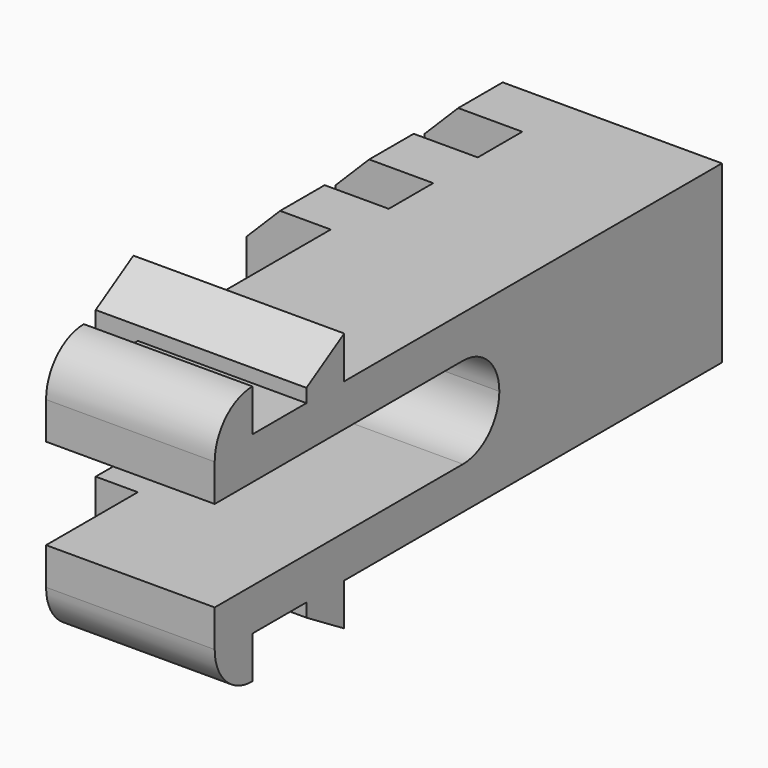
from build123d import *

# Parameters (mm, degrees)
PAD017_DEPTH           = 5
PAD020_DEPTH           = 6.25
SKETCH055_W            = 5.2
SKETCH055_H            = 1.65
PAD025_DEPTH           = 7.5
SKETCH052_W            = 5.2
SKETCH052_H            = 1.65
PAD026_DEPTH           = 4.6
SKETCH053_W            = 2.1
SKETCH053_H            = 1.65
PAD027_DEPTH           = 7.5
SKETCH054_W            = 5.2
SKETCH054_H            = 1.65
PAD028_DEPTH           = 7.5
LINEARPATTERN011_COUNT = 2
LINEARPATTERN011_PITCH = 3.3
CHAMFER001_SIZE        = 1
MIRROR_PLACEMENT_ANGLE = 90


with BuildPart() as obj1:
    # Sketch034 → Pad017 (new body)
    with BuildSketch(Plane.XY):
        with BuildLine():
            Line((-1.35, -1.8), (-1.35, 6))
            ThreePointArc((0, 7.35), (-0.954594, 6.954594), (-1.35, 6))
            Line((0, 9), (0, 7.35))
            Line((-2.6, 9), (0, 9))
            Line((-2.6, -1.8), (-2.6, 9))
            Line((-3.85, -1.8), (-2.6, -1.8))
            ThreePointArc((-3.85, -1.8), (-3.439949, -2.789949), (-2.45, -3.2))
            Line((-1.35, -3.2), (-2.45, -3.2))
            Line((-1.35, -1.8), (-1.35, -3.2))
        make_face()
    extrude(amount=PAD017_DEPTH)

    # Sketch037 → Pad020 (join)
    with BuildSketch(Plane.XY):
        Polygon((-1.35, 0.2), (-1.35, 1.6), (-2.6, 1.6), (-3.85, 1.6), (-3, 0.2), (-2.6, 0.2), align=None)
    extrude(amount=PAD020_DEPTH)


with BuildPart() as obj2:
    # Mirror001: instance of _obj1
    add(obj1.part.mirror(Plane(origin=(0, 0, 0), x_dir=(0, 1, 0), z_dir=(-1, 0, 0))))


with BuildPart() as body014:
    # Fusion001 base: copy of _obj1
    add(obj1.part)

    # Fusion001: union _obj2)
    add(obj2.part)

    # Sketch055 → Pad025 (new body)
    with BuildSketch(Plane.XY):
        with Locations((0, 8.175)):
            Rectangle(SKETCH055_W, SKETCH055_H)
    extrude(amount=PAD025_DEPTH)

    # Sketch052 → Pad026 (join)
    with BuildSketch(Plane.XY):
        with Locations((0, 9.825)):
            Rectangle(SKETCH052_W, SKETCH052_H)
    pad026 = extrude(amount=PAD026_DEPTH)

    # Sketch053 → Pad027 (join)
    with BuildSketch(Plane.XY):
        with Locations((1.55, 9.825)):
            Rectangle(SKETCH053_W, SKETCH053_H)
    pad027 = extrude(amount=PAD027_DEPTH)

    # Sketch054 → Pad028 (join)
    with BuildSketch(Plane.XY):
        with Locations((0, 11.475)):
            Rectangle(SKETCH054_W, SKETCH054_H)
    pad028 = extrude(amount=PAD028_DEPTH)

    # LinearPattern011: Pad026, Pad027, Pad028 ×2
    with Locations(*[(0, i * LINEARPATTERN011_PITCH, 0) for i in range(1, LINEARPATTERN011_COUNT)]):
        add(pad026)
        add(pad027)
        add(pad028)

    # Chamfer001
    chamfer001_edges = [body014.edges().sort_by_distance(p)[0] for p in [
        (-2.6, 14.775, 7.5),
        (-2.6, 11.475, 7.5),
        (-2.6, 8.175, 7.5),
    ]]
    chamfer(chamfer001_edges, length=CHAMFER001_SIZE)


with BuildPart() as mirror:
    # Mirror: instance of Body014
    add(body014.part.mirror(Plane(origin=(0, 0, 0), x_dir=(0, -1, 0), z_dir=(1, 0, 0))))


with BuildPart() as mirror_1:
    # Mirror placement: moved
    add(mirror.part.moved(Location((2.5, 0, 2.5))).rotate(Axis((2.5, 0, 2.5), (0, -1, 0)), MIRROR_PLACEMENT_ANGLE))


solid = mirror_1.part
